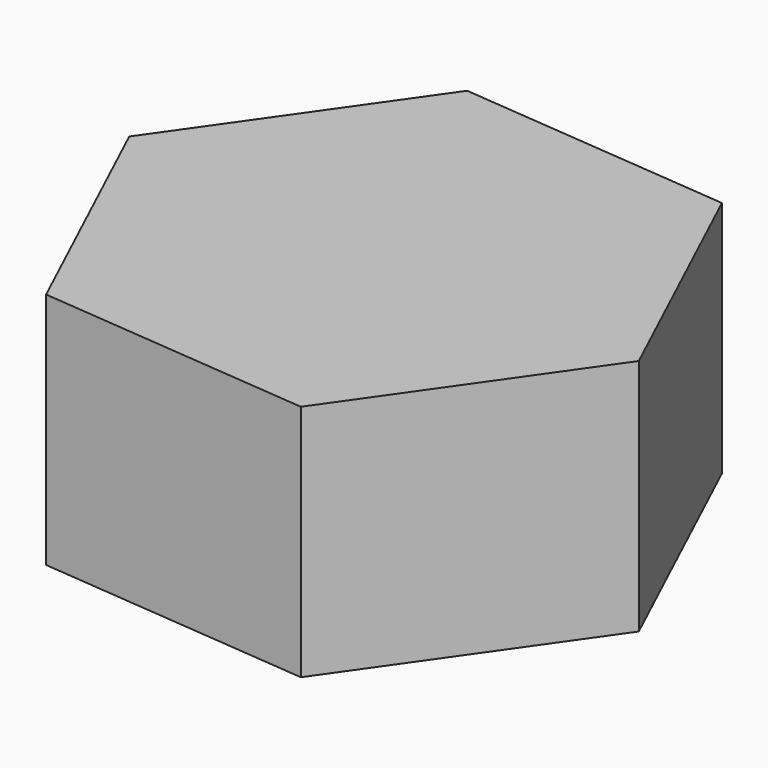
from build123d import *

# Parameters (mm, degrees)
F1_DEPTH = 25


with BuildPart() as f1:
    # F0 (on Top) → F1 (new body)
    with BuildSketch(Plane.XY):
        Polygon((-17.67767, 17.67767), (-18.141327, 17.67767), (-20.478801, 14.339411), (0, 0), align=None)
        Polygon((16.557725, 23.646883), (-12.199938, 26.162852), (-18.141327, 17.67767), (-17.67767, 17.67767), (0, 0), (-20.478801, 14.339411), (-28.757664, 2.51597), (-16.557725, -23.646883), (12.199938, -26.162852), (28.757664, -2.51597), align=None)
    extrude(amount=F1_DEPTH)


solid = f1.part
